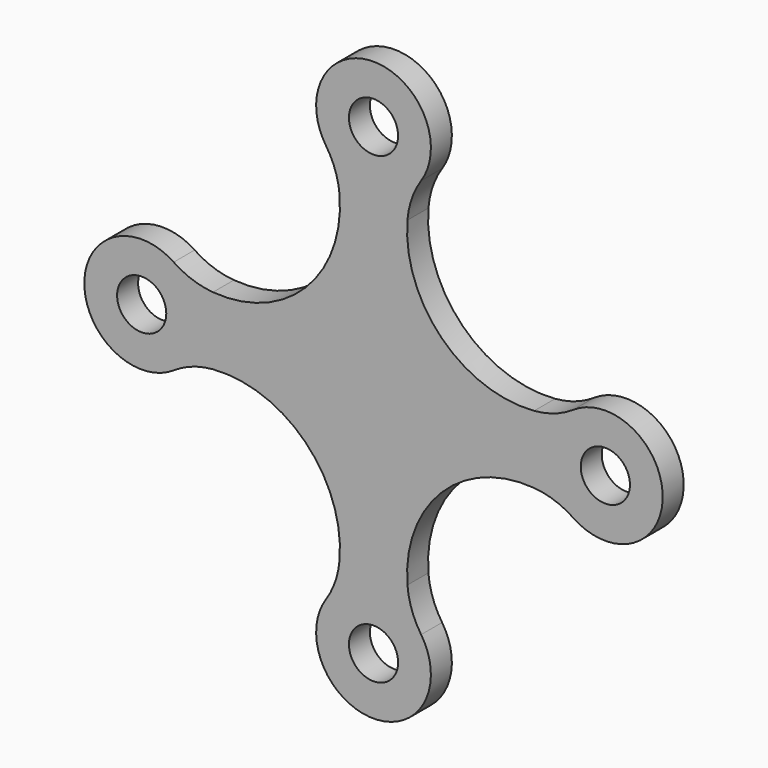
from build123d import *

# Parameters (mm, degrees)
F0_R     = 1.5
F1_DEPTH = 1.6


with BuildPart() as f1:
    # F0 (on Front) → F1 (new body)
    with BuildSketch(Plane.XZ):
        with BuildLine():
            ThreePointArc((-9.796829, 2.07035), (-11.047029, 2.333477), (-12.189734, 2.904845))
            ThreePointArc((-12.189734, 2.904845), (-17.642136, 0), (-12.189734, -2.904845))
            ThreePointArc((-12.189734, -2.904845), (-11.047029, -2.333477), (-9.796829, -2.07035))
            ThreePointArc((-9.796829, -2.07035), (-4.150758, -4.150758), (-2.07035, -9.796829))
            ThreePointArc((-2.07035, -9.796829), (-2.333477, -11.047029), (-2.904845, -12.189734))
            ThreePointArc((-2.904845, -12.189734), (0, -17.642136), (2.904845, -12.189734))
            ThreePointArc((2.904845, -12.189734), (2.333477, -11.047029), (2.07035, -9.796829))
            ThreePointArc((2.07035, -9.796829), (4.150758, -4.150758), (9.796829, -2.07035))
            ThreePointArc((9.796829, -2.07035), (11.047029, -2.333477), (12.189734, -2.904845))
            ThreePointArc((12.189734, -2.904845), (17.642136, 0), (12.189734, 2.904845))
            ThreePointArc((12.189734, 2.904845), (11.047029, 2.333477), (9.796829, 2.07035))
            ThreePointArc((9.796829, 2.07035), (4.150758, 4.150758), (2.07035, 9.796829))
            ThreePointArc((2.07035, 9.796829), (2.333477, 11.047029), (2.904845, 12.189734))
            ThreePointArc((2.904845, 12.189734), (0, 17.642136), (-2.904845, 12.189734))
            ThreePointArc((-2.904845, 12.189734), (-2.333477, 11.047029), (-2.07035, 9.796829))
            ThreePointArc((-2.07035, 9.796829), (-4.150758, 4.150758), (-9.796829, 2.07035))
        make_face()
        with Locations((0, -14.142136)):
            Circle(F0_R, mode=Mode.SUBTRACT)
        with Locations((-14.142136, 0)):
            Circle(F0_R, mode=Mode.SUBTRACT)
        with Locations((14.142136, 0)):
            Circle(F0_R, mode=Mode.SUBTRACT)
        with Locations((0, 14.142136)):
            Circle(F0_R, mode=Mode.SUBTRACT)
    extrude(amount=F1_DEPTH)


solid = f1.part
